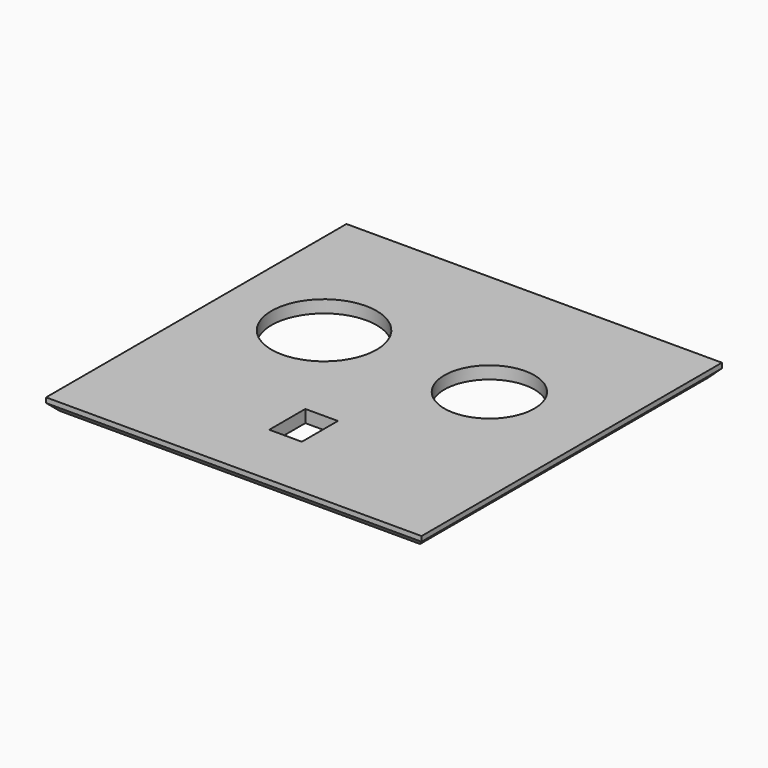
from build123d import *

# Parameters (mm, degrees)
SKETCH002_R      = 21
SKETCH002_R_2    = 18
SKETCH002_W      = 13
SKETCH002_H      = 18
EXTRUDE002_DEPTH = 10
BOX002_W         = 150
BOX002_H         = 150
BOX002_DEPTH     = 5
CHAMFER_SIZE     = 3


with BuildPart() as extrude002:
    # Sketch002 (on Face6 of Box002) → Extrude002 (new body)
    with BuildSketch(Plane.XY.offset(5)):
        with Locations((39.413204, 89.551971)):
            Circle(SKETCH002_R)
        with Locations((105.700333, 89.247101)):
            Circle(SKETCH002_R_2)
        with Locations((74.540915, 35.410171)):
            Rectangle(SKETCH002_W, SKETCH002_H)
    extrude(amount=EXTRUDE002_DEPTH)


with BuildPart() as extrude002_1:
    # Extrude002 placement: moved
    add(extrude002.part.moved(Location((0, 0, -7))))


with BuildPart() as tapacaja003:
    # Box002 → Box002 (new body)
    with BuildSketch(Plane.XY):
        with Locations((75, 75)):
            Rectangle(BOX002_W, BOX002_H)
    extrude(amount=BOX002_DEPTH)

    # Cut002: cut Extrude002
    add(extrude002_1.part, mode=Mode.SUBTRACT)


with BuildPart() as tapacaja003_1:
    # Cut002 placement: moved
    add(tapacaja003.part.moved(Location((0, 0, 61))))

    # Chamfer
    chamfer_edges = [tapacaja003_1.edges().sort_by_distance(p)[0] for p in [
        (0, 75, 61),
        (75, 0, 61),
        (75, 150, 61),
        (150, 75, 61),
    ]]
    chamfer(chamfer_edges, length=CHAMFER_SIZE)


with BuildPart() as tapacaja003_2:
    # Chamfer placement: moved
    add(tapacaja003_1.part.moved(Location((0, 0, -4))))


solid = tapacaja003_2.part
